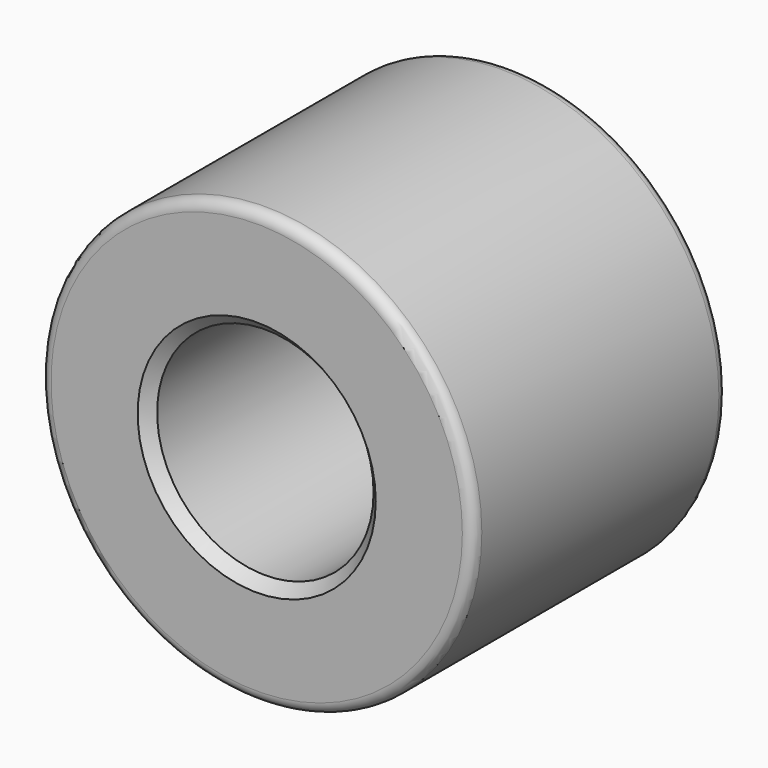
from build123d import *

# Parameters (mm, degrees)
F0_R     = 101.6
F0_R_2   = 50.8
F1_DEPTH = 74.6125
F2_R     = 5.08
F3_SIZE  = 5.08


with BuildPart() as f1:
    # F0 (on Front) → F1 (new body, symmetric)
    with BuildSketch(Plane.XZ):
        with Locations((0, 9.641961284)):
            Circle(F0_R)
        with Locations((0, 9.641961284)):
            Circle(F0_R_2, mode=Mode.SUBTRACT)
    extrude(amount=F1_DEPTH, both=True)

    # F2
    f2_edges = [f1.edges().sort_by_distance(p)[0] for p in [
        (-101.6, 74.6125, 9.641961),
        (101.6, 0, 9.641961),
        (-101.6, -74.6125, 9.641961),
    ]]
    fillet(f2_edges, radius=F2_R)

    # F3
    f3_edges = [f1.edges().sort_by_distance(p)[0] for p in [
        (-50.8, -74.6125, 9.641961),
        (50.8, 0, 9.641961),
        (-50.8, 74.6125, 9.641961),
    ]]
    chamfer(f3_edges, length=F3_SIZE)


solid = f1.part
